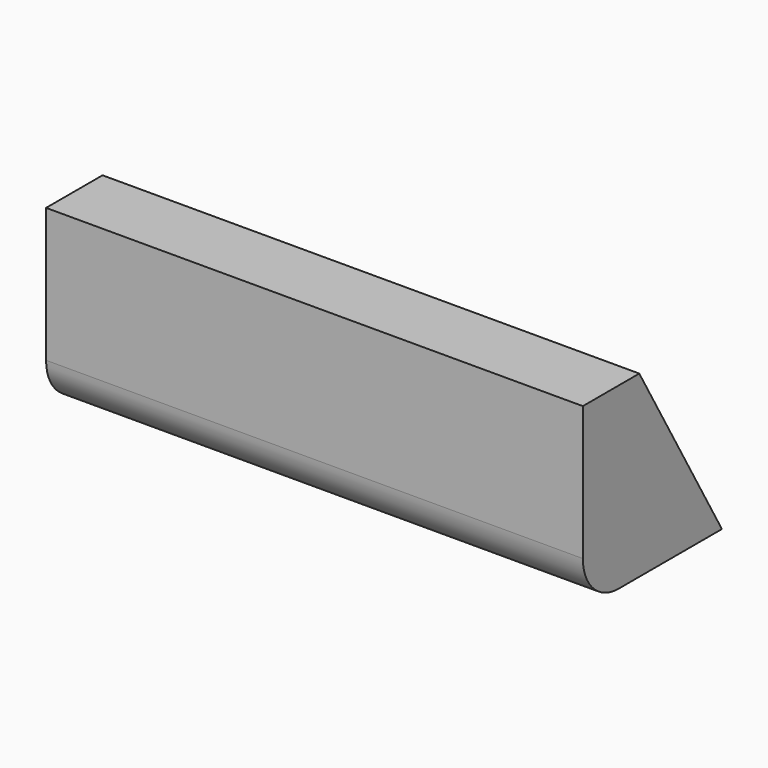
from build123d import *

# Parameters (mm, degrees)
F1_DEPTH = 30
F2_R     = 5


with BuildPart() as f1:
    # F0 (on Right) → F1 (new body, symmetric)
    with BuildSketch(Plane.YZ):
        Polygon((-9.786199, -35.788871), (-17.003077, -23.288871), (-24.219956, -23.288871), (-24.219956, -35.788871), align=None)
        Polygon((-24.219956, -23.288871), (-17.003077, -23.288871), (-21.333204, -15.788871), (-24.219956, -15.788871), align=None)
        Polygon((-24.219956, -35.788871), (-24.219956, -23.288871), (-24.219956, -15.788871), (-29.219956, -15.788871), (-29.219956, -35.788871), align=None)
    extrude(amount=F1_DEPTH, both=True)

    # F2
    f2_edges = [f1.edges().sort_by_distance(p)[0] for p in [
        (0, -29.219956, -35.788871),
    ]]
    fillet(f2_edges, radius=F2_R)


solid = f1.part
